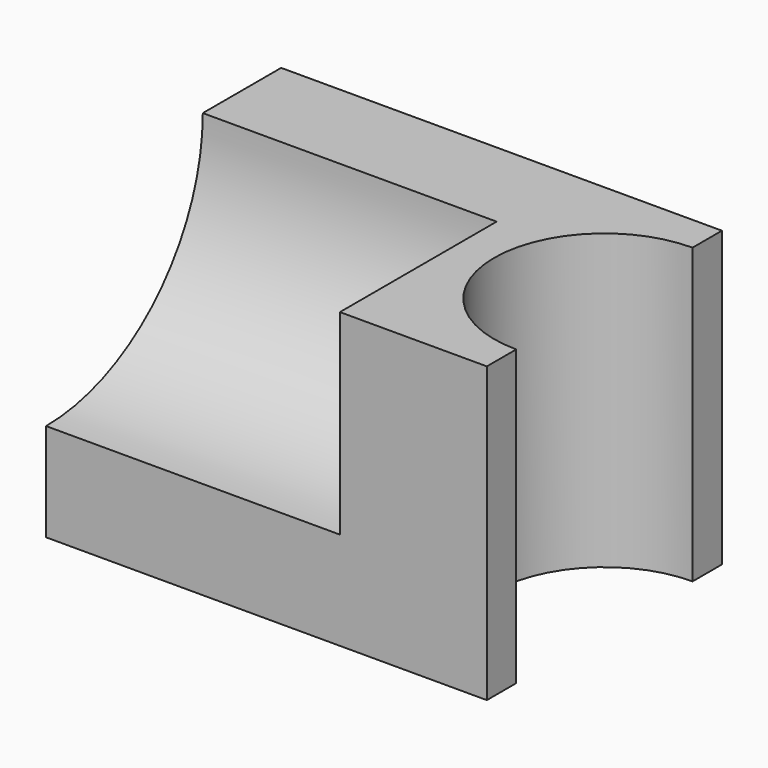
from build123d import *

# Parameters (mm, degrees)
F0_W     = 90
F0_H     = 60
F1_DEPTH = 60
F3_DEPTH = 60
F5_W     = 60
F5_H     = 40


with BuildPart() as f1:
    # F0 (on Top) → F1 (new body)
    with BuildSketch(Plane.XY):
        with Locations((45, -30)):
            Rectangle(F0_W, F0_H)
    extrude(amount=F1_DEPTH)

    # F2 (on face) → F3 (cut, through all)
    with BuildSketch(Plane.XY.offset(60)):
        with BuildLine():
            Line((90, -52.5), (90, -7.5))
            ThreePointArc((90, -7.5), (67.5, -30), (90, -52.5))
        make_face()
    extrude(amount=-F3_DEPTH, mode=Mode.SUBTRACT)

    # F5 (on face) → F6 (revolve, cut)
    with BuildSketch(Plane.XZ.offset(60)):
        with Locations((30, 80)):
            Rectangle(F5_W, F5_H)
    revolve(axis=Axis((45, -60, 60), (-1, 0, 0)), mode=Mode.SUBTRACT)


solid = f1.part
